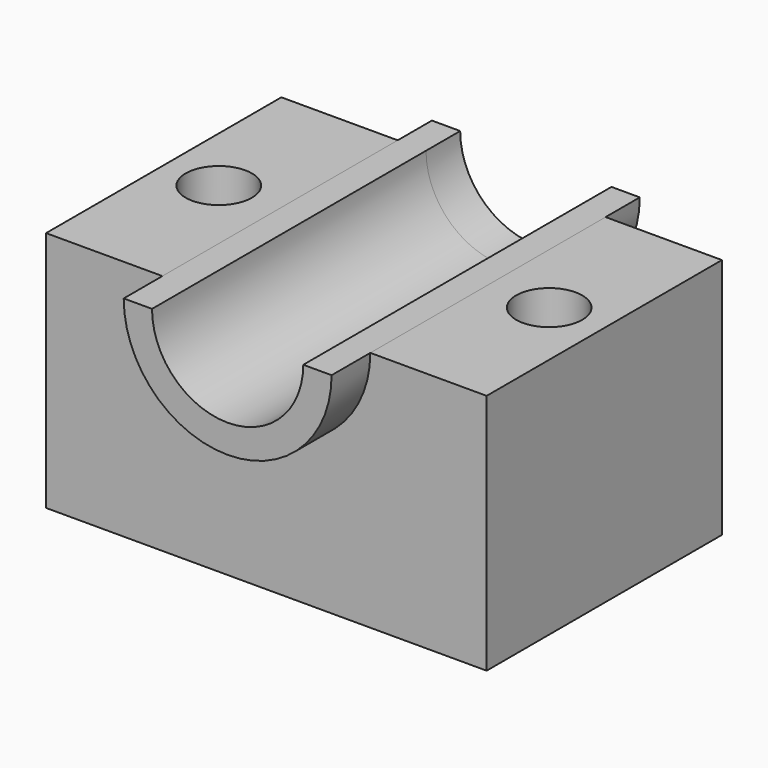
from build123d import *

# Parameters (mm, degrees)
F0_W     = 115.61966
F0_H     = 77.179112
F0_R     = 8.68012
F1_DEPTH = 63.5
F2_R     = 27.279522
F3_DEPTH = 12.7
F4_R     = 27.279522
F4_R_2   = 19.848917
F5_DEPTH = 101.092
F7_DEPTH = 194.818


with BuildPart() as f1:
    # F0 (on Top) → F1 (new body)
    with BuildSketch(Plane.XY):
        Rectangle(F0_W, F0_H)
        with Locations((-43.357372, 0)):
            Circle(F0_R, mode=Mode.SUBTRACT)
        with Locations((43.357372, 0)):
            Circle(F0_R, mode=Mode.SUBTRACT)
    extrude(amount=F1_DEPTH)

    # F2 (on face) → F3 (join)
    with BuildSketch(Plane.XZ.offset(38.589556)):
        with Locations((0, 63.5)):
            Circle(F2_R)
    extrude(amount=F3_DEPTH)

    # F4 (on face) → F5 (join)
    with BuildSketch(Plane.XZ.offset(51.289556)):
        with Locations((0, 63.5)):
            Circle(F4_R)
        with Locations((0, 63.5)):
            Circle(F4_R_2, mode=Mode.SUBTRACT)
    extrude(amount=-F5_DEPTH)

    # F6 (on face) → F7 (cut)
    with BuildSketch(Plane(origin=(0, 49.802444, 0), x_dir=(-1, 0, 0), z_dir=(0, 1, 0))):
        with BuildLine():
            Line((19.848917, 63.5), (27.279522, 63.5))
            Line((27.279522, 63.5), (27.279522, 94.863847))
            Line((27.279522, 94.863847), (-27.279522, 94.863847))
            Line((-27.279522, 94.863847), (-27.279522, 63.5))
            Line((-27.279522, 63.5), (-19.848917, 63.5))
            ThreePointArc((-19.848917, 63.5), (0, 43.651083), (19.848917, 63.5))
        make_face()
    extrude(amount=-F7_DEPTH, mode=Mode.SUBTRACT)


solid = f1.part
